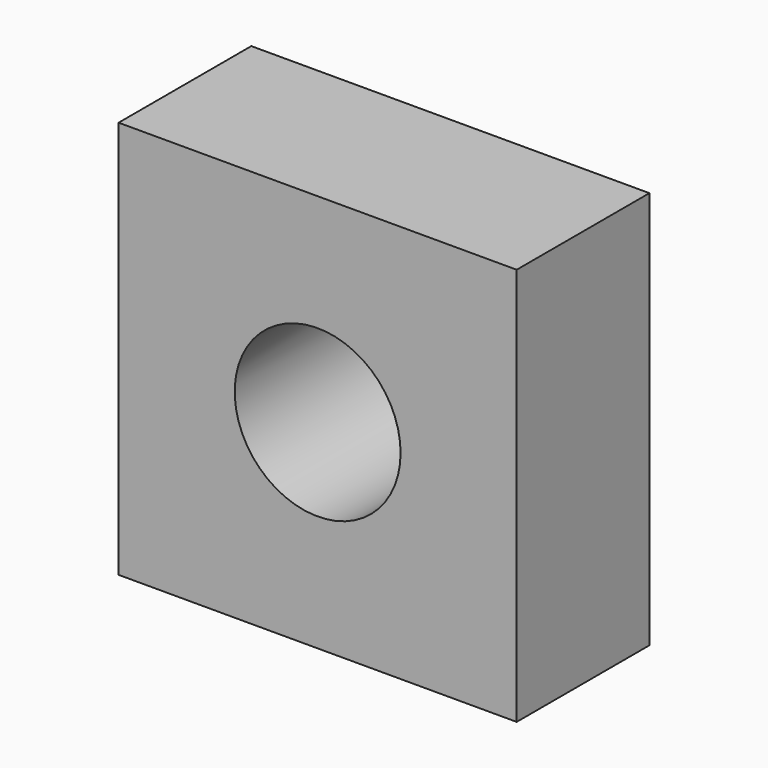
from build123d import *

# Parameters (mm, degrees)
F0_W     = 152.4
F0_H     = 152.4
F0_W_2   = 101.6
F0_H_2   = 101.6
F0_R     = 31.75
F1_DEPTH = 63.5
F2_DEPTH = 25.4


with BuildPart() as f1:
    # F0 (on Front) → F1 (new body)
    with BuildSketch(Plane.XZ):
        Rectangle(F0_W, F0_H)
        Rectangle(F0_W_2, F0_H_2, mode=Mode.SUBTRACT)
        Rectangle(F0_W_2, F0_H_2)
        Circle(F0_R, mode=Mode.SUBTRACT)
    extrude(amount=F1_DEPTH)

    # F0 (on Front) → F2 (join)
    with BuildSketch(Plane.XZ):
        Rectangle(F0_W_2, F0_H_2)
        Circle(F0_R, mode=Mode.SUBTRACT)
    extrude(amount=-F2_DEPTH)


solid = f1.part
